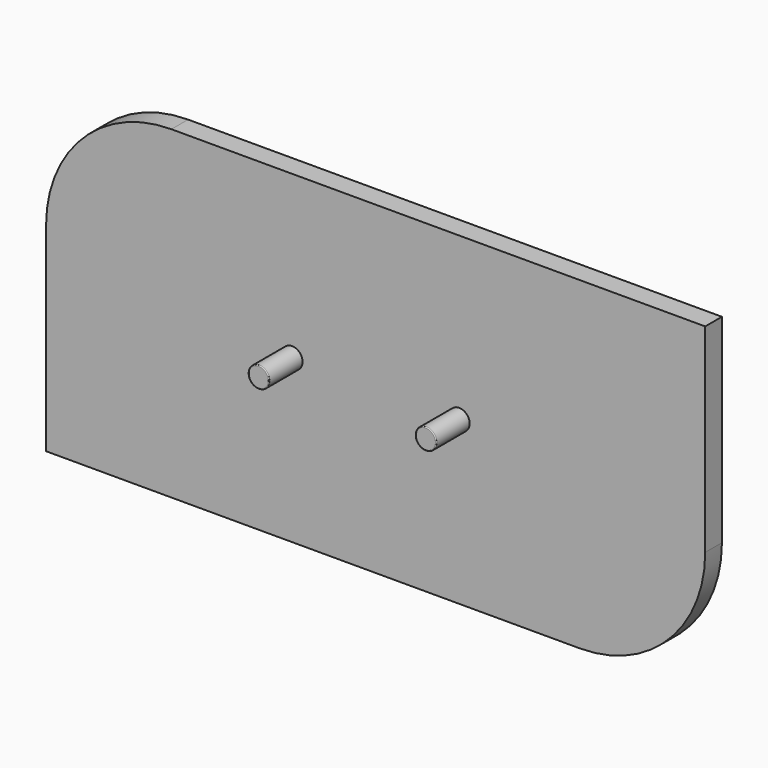
from build123d import *

# Parameters (mm, degrees)
F1_DEPTH = 5
F2_R     = 2.5
F3_DEPTH = 10
F4_R     = 0.2


with BuildPart() as f1:
    # F0 (on Front) → F1 (new body)
    with BuildSketch(Plane.XZ):
        with BuildLine():
            Line((78.891635, -8.808454), (78.891635, 38.808454))
            Line((78.891635, 38.808454), (-48.891635, 38.808454))
            ThreePointArc((-48.891635, 38.808454), (-70.104838, 30.021657), (-78.891635, 8.808454))
            Line((-78.891635, 8.808454), (-78.891635, -38.808454))
            Line((-78.891635, -38.808454), (48.891635, -38.808454))
            ThreePointArc((48.891635, -38.808454), (70.104838, -30.021657), (78.891635, -8.808454))
        make_face()
    extrude(amount=F1_DEPTH)

    # F2 (on face) → F3 (join)
    with BuildSketch(Plane.XZ.offset(5)):
        with Locations((-20, 0)):
            Circle(F2_R)
        with Locations((20, 0)):
            Circle(F2_R)
    extrude(amount=F3_DEPTH)

    # F4
    f4_edges = [f1.edges().sort_by_distance(p)[0] for p in [
        (-22.5, -15, 0),
        (17.5, -15, 0),
    ]]
    fillet(f4_edges, radius=F4_R)


solid = f1.part
